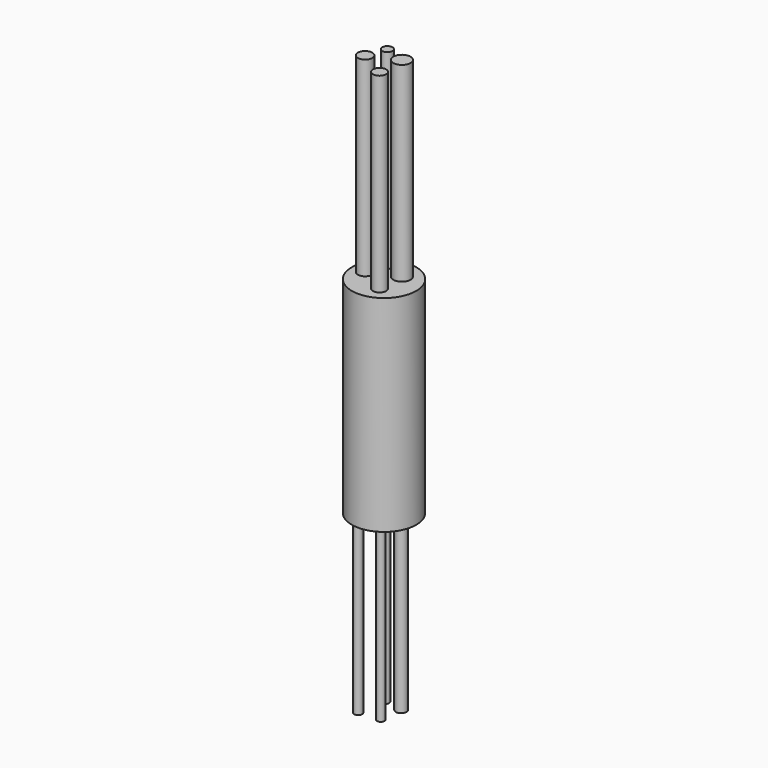
from build123d import *

# Parameters (mm, degrees)
F0_R     = 25.627184
F1_DEPTH = 164
F2_R     = 3.189044
F2_R_2   = 3.059411
F2_R_3   = 4.263801
F2_R_4   = 3.084232
F3_DEPTH = 137
F4_R     = 4.101554
F4_R_2   = 6.872634
F4_R_3   = 5.28999
F4_R_4   = 5.785283
F5_DEPTH = 152


with BuildPart() as f1:
    # F0 (on Top) → F1 (new body)
    with BuildSketch(Plane.XY):
        Circle(F0_R)
    extrude(amount=F1_DEPTH)

    # F2 (on face) → F3 (join)
    with BuildSketch(Plane(origin=(0, 0, 0), x_dir=(1, 0, 0), z_dir=(0, 0, -1))):
        with Locations((-8.850001, 14.700001)):
            Circle(F2_R)
        with Locations((7.950001, 13.200001)):
            Circle(F2_R_2)
        with Locations((9.750001, -4.8)):
            Circle(F2_R_3)
        with Locations((-4.950002, -7.5)):
            Circle(F2_R_4)
    extrude(amount=F3_DEPTH)

    # F4 (on face) → F5 (join)
    with BuildSketch(Plane.XY.offset(164)):
        with Locations((-9.454723, 15.175114)):
            Circle(F4_R)
        with Locations((6.632895, 9.544446)):
            Circle(F4_R_2)
        with Locations((5.828514, -11.771653)):
            Circle(F4_R_3)
        with Locations((-15.085398, 0)):
            Circle(F4_R_4)
    extrude(amount=F5_DEPTH)


solid = f1.part
